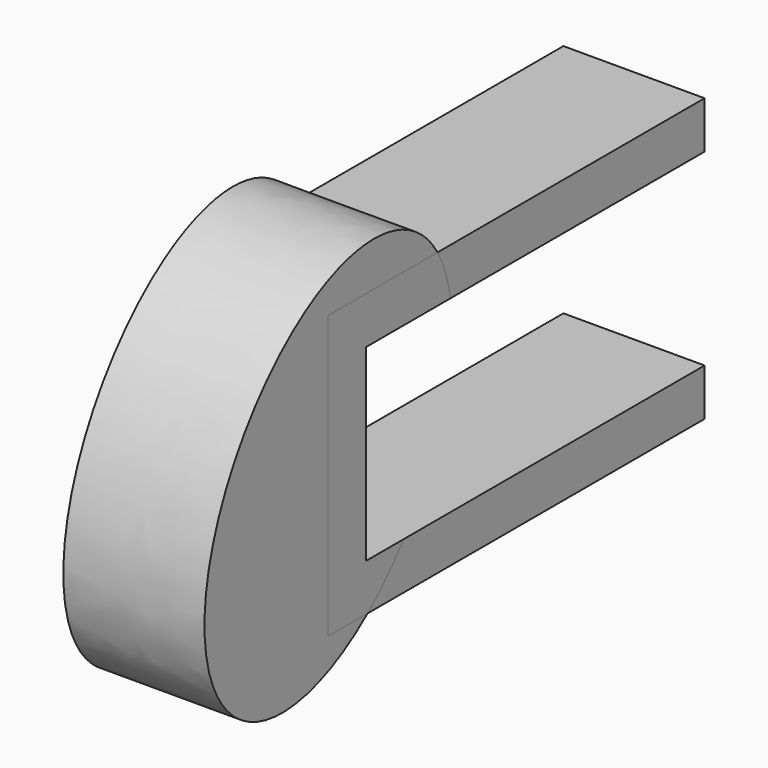
from build123d import *

# Parameters (mm, degrees)
F0_W     = 127
F0_H     = 76.2
F1_DEPTH = 38.1
F5_DEPTH = 38.1
F3_W     = 114.3
F3_H     = 50.8
F6_DEPTH = 38.1010001


with BuildPart() as f1:
    # F0 (on Right) → F1 (new body)
    with BuildSketch(Plane.YZ):
        with Locations((63.5, 0)):
            Rectangle(F0_W, F0_H)
    extrude(amount=F1_DEPTH)

    # F4 (on Right) → F5 (join, through all)
    with BuildSketch(Plane.YZ):
        with BuildLine():
            add(Edge.make_bspline(
                [(-28.8798008114, -46.4058034122), (23.2675885804, -78.8587749747), (40.5135951016, 6.9764159249), (57.7596016228, 92.8116068244), (-11.6337942902, 39.4293874873), (-81.0271902032, -13.9528318497), (-28.8798008114, -46.4058034122)],
                knots=[0, 0, 0, 2.0943951024, 2.0943951024, 4.1887902048, 4.1887902048, 6.2831853072, 6.2831853072, 6.2831853072], degree=2, weights=[1, 0.5, 1, 0.5, 1, 0.5, 1]))
        make_face()
    extrude(amount=F5_DEPTH)

    # F3 (on face) → F6 (cut, through all)
    with BuildSketch(Plane.YZ.offset(38.1)):
        with Locations((69.85, 0)):
            Rectangle(F3_W, F3_H)
    extrude(amount=-F6_DEPTH, mode=Mode.SUBTRACT)


solid = f1.part
